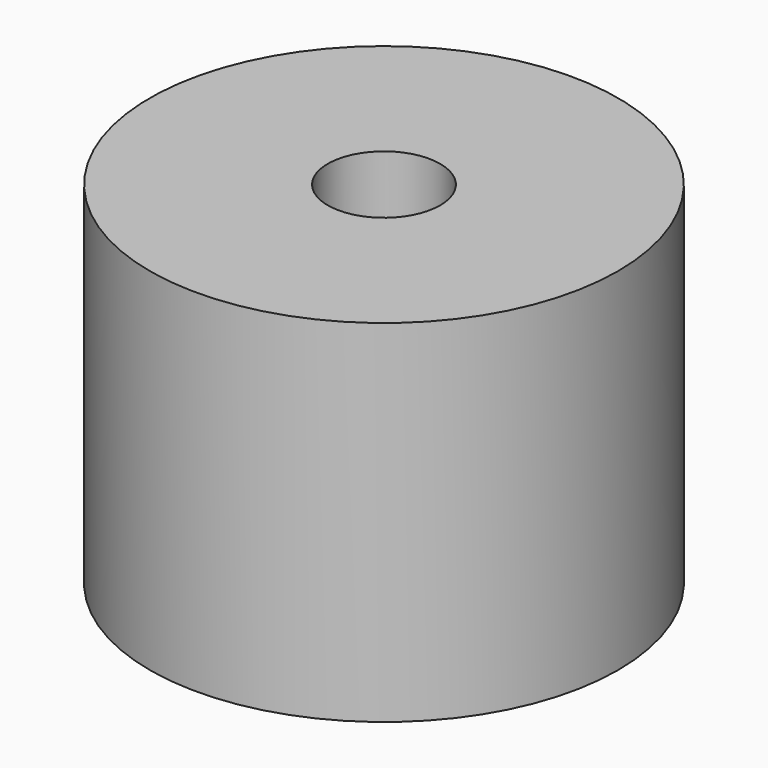
from build123d import *

# Parameters (mm, degrees)
SKETCH_R      = 10
SKETCH_R_2    = 2.4
EXTRUDE_DEPTH = 15


with BuildPart() as part:
    # Sketch → Extrude (new body)
    with BuildSketch(Plane.XY):
        Circle(SKETCH_R)
        Circle(SKETCH_R_2, mode=Mode.SUBTRACT)
    extrude(amount=EXTRUDE_DEPTH)


solid = part.part
